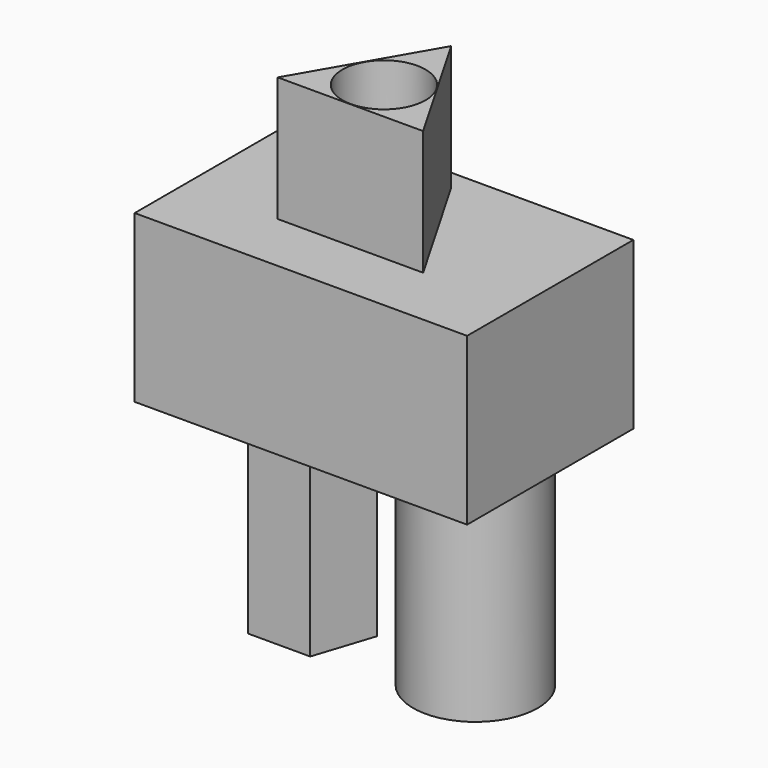
from build123d import *

# Parameters (mm, degrees)
F0_W     = 80
F0_H     = 50
F1_DEPTH = 40
F3_DEPTH = 30
F4_R     = 10
F5_DEPTH = 30
F7_DEPTH = 50
F8_R     = 15
F9_DEPTH = 50


with BuildPart() as f1:
    # F0 (on Top) → F1 (new body)
    with BuildSketch(Plane.XY):
        Rectangle(F0_W, F0_H)
    extrude(amount=F1_DEPTH)

    # F2 (on face) → F3 (join)
    with BuildSketch(Plane.XY.offset(40)):
        Polygon((0, 20.207259), (-17.5, -10.10363), (17.5, -10.10363), align=None)
    extrude(amount=F3_DEPTH)

    # F4 (on face) → F5 (cut)
    with BuildSketch(Plane.XY.offset(70)):
        Circle(F4_R)
    extrude(amount=-F5_DEPTH, mode=Mode.SUBTRACT)

    # F6 (on face) → F7 (join)
    with BuildSketch(Plane(origin=(0, 0, 0), x_dir=(1, 0, 0), z_dir=(0, 0, -1))):
        Polygon((-9.5, 10.322864), (-24.5, 10.322864), (-29.135255, -3.942983), (-17, -12.759762), (-4.864745, -3.942983), align=None)
    extrude(amount=F7_DEPTH)

    # F8 (on face) → F9 (join)
    with BuildSketch(Plane(origin=(0, 0, 0), x_dir=(1, 0, 0), z_dir=(0, 0, -1))):
        with Locations((22, 0)):
            Circle(F8_R)
    extrude(amount=F9_DEPTH)


solid = f1.part
